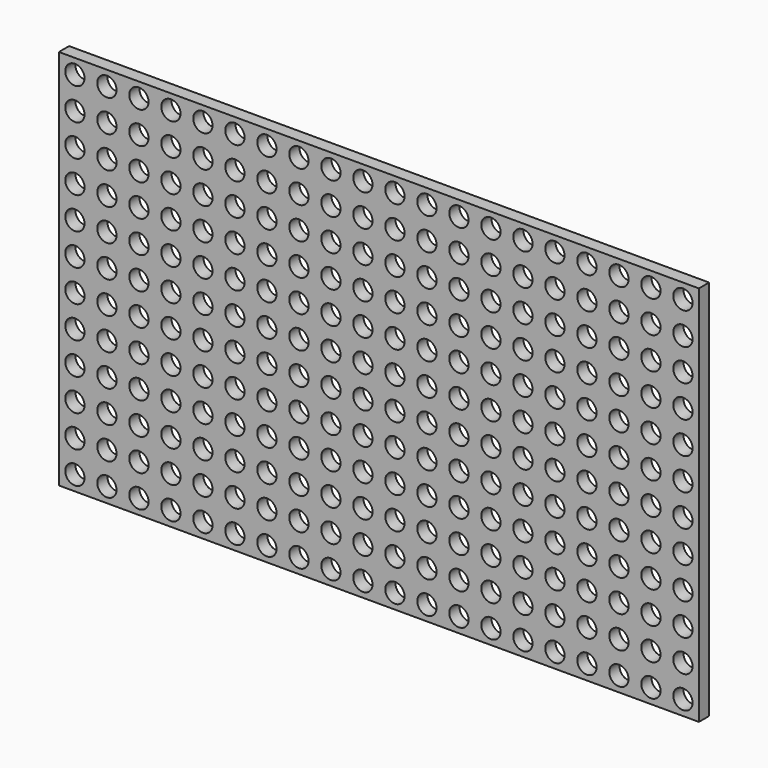
from build123d import *

# Parameters (mm, degrees)
F0_W     = 159.4
F0_H     = 95.05
F0_R     = 2.4
F1_DEPTH = 3.175


with BuildPart() as f1:
    # F0 (on Front) → F1 (new body)
    with BuildSketch(Plane.XZ):
        with Locations((79.7, -47.525)):
            Rectangle(F0_W, F0_H)
        with Locations((3.985, -91.36)):
            Circle(F0_R, mode=Mode.SUBTRACT)
        with Locations((11.955, -91.36)):
            Circle(F0_R, mode=Mode.SUBTRACT)
        with Locations((19.925, -91.36)):
            Circle(F0_R, mode=Mode.SUBTRACT)
        with Locations((3.985, -83.39)):
            Circle(F0_R, mode=Mode.SUBTRACT)
        with Locations((11.955, -83.39)):
            Circle(F0_R, mode=Mode.SUBTRACT)
        with Locations((19.925, -83.39)):
            Circle(F0_R, mode=Mode.SUBTRACT)
        with Locations((27.895, -91.36)):
            Circle(F0_R, mode=Mode.SUBTRACT)
        with Locations((35.865, -91.36)):
            Circle(F0_R, mode=Mode.SUBTRACT)
        with Locations((27.895, -83.39)):
            Circle(F0_R, mode=Mode.SUBTRACT)
        with Locations((35.865, -83.39)):
            Circle(F0_R, mode=Mode.SUBTRACT)
        with Locations((3.985, -75.42)):
            Circle(F0_R, mode=Mode.SUBTRACT)
        with Locations((11.955, -75.42)):
            Circle(F0_R, mode=Mode.SUBTRACT)
        with Locations((19.925, -75.42)):
            Circle(F0_R, mode=Mode.SUBTRACT)
        with Locations((27.895, -75.42)):
            Circle(F0_R, mode=Mode.SUBTRACT)
        with Locations((35.865, -75.42)):
            Circle(F0_R, mode=Mode.SUBTRACT)
        with Locations((43.835, -91.36)):
            Circle(F0_R, mode=Mode.SUBTRACT)
        with Locations((51.805, -91.36)):
            Circle(F0_R, mode=Mode.SUBTRACT)
        with Locations((43.835, -83.39)):
            Circle(F0_R, mode=Mode.SUBTRACT)
        with Locations((51.805, -83.39)):
            Circle(F0_R, mode=Mode.SUBTRACT)
        with Locations((59.775, -91.36)):
            Circle(F0_R, mode=Mode.SUBTRACT)
        with Locations((67.745, -91.36)):
            Circle(F0_R, mode=Mode.SUBTRACT)
        with Locations((75.715, -91.36)):
            Circle(F0_R, mode=Mode.SUBTRACT)
        with Locations((59.775, -83.39)):
            Circle(F0_R, mode=Mode.SUBTRACT)
        with Locations((67.745, -83.39)):
            Circle(F0_R, mode=Mode.SUBTRACT)
        with Locations((75.715, -83.39)):
            Circle(F0_R, mode=Mode.SUBTRACT)
        with Locations((43.835, -75.42)):
            Circle(F0_R, mode=Mode.SUBTRACT)
        with Locations((51.805, -75.42)):
            Circle(F0_R, mode=Mode.SUBTRACT)
        with Locations((59.775, -75.42)):
            Circle(F0_R, mode=Mode.SUBTRACT)
        with Locations((67.745, -75.42)):
            Circle(F0_R, mode=Mode.SUBTRACT)
        with Locations((75.715, -75.42)):
            Circle(F0_R, mode=Mode.SUBTRACT)
        with Locations((3.985, -67.45)):
            Circle(F0_R, mode=Mode.SUBTRACT)
        with Locations((11.955, -67.45)):
            Circle(F0_R, mode=Mode.SUBTRACT)
        with Locations((19.925, -67.45)):
            Circle(F0_R, mode=Mode.SUBTRACT)
        with Locations((3.985, -59.48)):
            Circle(F0_R, mode=Mode.SUBTRACT)
        with Locations((11.955, -59.48)):
            Circle(F0_R, mode=Mode.SUBTRACT)
        with Locations((19.925, -59.48)):
            Circle(F0_R, mode=Mode.SUBTRACT)
        with Locations((27.895, -67.45)):
            Circle(F0_R, mode=Mode.SUBTRACT)
        with Locations((35.865, -67.45)):
            Circle(F0_R, mode=Mode.SUBTRACT)
        with Locations((27.895, -59.48)):
            Circle(F0_R, mode=Mode.SUBTRACT)
        with Locations((35.865, -59.48)):
            Circle(F0_R, mode=Mode.SUBTRACT)
        with Locations((3.985, -51.51)):
            Circle(F0_R, mode=Mode.SUBTRACT)
        with Locations((11.955, -51.51)):
            Circle(F0_R, mode=Mode.SUBTRACT)
        with Locations((19.925, -51.51)):
            Circle(F0_R, mode=Mode.SUBTRACT)
        with Locations((27.895, -51.51)):
            Circle(F0_R, mode=Mode.SUBTRACT)
        with Locations((35.865, -51.51)):
            Circle(F0_R, mode=Mode.SUBTRACT)
        with Locations((43.835, -67.45)):
            Circle(F0_R, mode=Mode.SUBTRACT)
        with Locations((51.805, -67.45)):
            Circle(F0_R, mode=Mode.SUBTRACT)
        with Locations((43.835, -59.48)):
            Circle(F0_R, mode=Mode.SUBTRACT)
        with Locations((51.805, -59.48)):
            Circle(F0_R, mode=Mode.SUBTRACT)
        with Locations((59.775, -67.45)):
            Circle(F0_R, mode=Mode.SUBTRACT)
        with Locations((67.745, -67.45)):
            Circle(F0_R, mode=Mode.SUBTRACT)
        with Locations((75.715, -67.45)):
            Circle(F0_R, mode=Mode.SUBTRACT)
        with Locations((59.775, -59.48)):
            Circle(F0_R, mode=Mode.SUBTRACT)
        with Locations((67.745, -59.48)):
            Circle(F0_R, mode=Mode.SUBTRACT)
        with Locations((75.715, -59.48)):
            Circle(F0_R, mode=Mode.SUBTRACT)
        with Locations((43.835, -51.51)):
            Circle(F0_R, mode=Mode.SUBTRACT)
        with Locations((51.805, -51.51)):
            Circle(F0_R, mode=Mode.SUBTRACT)
        with Locations((59.775, -51.51)):
            Circle(F0_R, mode=Mode.SUBTRACT)
        with Locations((67.745, -51.51)):
            Circle(F0_R, mode=Mode.SUBTRACT)
        with Locations((75.715, -51.51)):
            Circle(F0_R, mode=Mode.SUBTRACT)
        with Locations((83.685, -91.36)):
            Circle(F0_R, mode=Mode.SUBTRACT)
        with Locations((91.655, -91.36)):
            Circle(F0_R, mode=Mode.SUBTRACT)
        with Locations((83.685, -83.39)):
            Circle(F0_R, mode=Mode.SUBTRACT)
        with Locations((91.655, -83.39)):
            Circle(F0_R, mode=Mode.SUBTRACT)
        with Locations((99.625, -91.36)):
            Circle(F0_R, mode=Mode.SUBTRACT)
        with Locations((107.595, -91.36)):
            Circle(F0_R, mode=Mode.SUBTRACT)
        with Locations((115.565, -91.36)):
            Circle(F0_R, mode=Mode.SUBTRACT)
        with Locations((99.625, -83.39)):
            Circle(F0_R, mode=Mode.SUBTRACT)
        with Locations((107.595, -83.39)):
            Circle(F0_R, mode=Mode.SUBTRACT)
        with Locations((115.565, -83.39)):
            Circle(F0_R, mode=Mode.SUBTRACT)
        with Locations((83.685, -75.42)):
            Circle(F0_R, mode=Mode.SUBTRACT)
        with Locations((91.655, -75.42)):
            Circle(F0_R, mode=Mode.SUBTRACT)
        with Locations((99.625, -75.42)):
            Circle(F0_R, mode=Mode.SUBTRACT)
        with Locations((107.595, -75.42)):
            Circle(F0_R, mode=Mode.SUBTRACT)
        with Locations((115.565, -75.42)):
            Circle(F0_R, mode=Mode.SUBTRACT)
        with Locations((123.535, -91.36)):
            Circle(F0_R, mode=Mode.SUBTRACT)
        with Locations((131.505, -91.36)):
            Circle(F0_R, mode=Mode.SUBTRACT)
        with Locations((123.535, -83.39)):
            Circle(F0_R, mode=Mode.SUBTRACT)
        with Locations((131.505, -83.39)):
            Circle(F0_R, mode=Mode.SUBTRACT)
        with Locations((139.475, -91.36)):
            Circle(F0_R, mode=Mode.SUBTRACT)
        with Locations((147.445, -91.36)):
            Circle(F0_R, mode=Mode.SUBTRACT)
        with Locations((155.415, -91.36)):
            Circle(F0_R, mode=Mode.SUBTRACT)
        with Locations((139.475, -83.39)):
            Circle(F0_R, mode=Mode.SUBTRACT)
        with Locations((147.445, -83.39)):
            Circle(F0_R, mode=Mode.SUBTRACT)
        with Locations((155.415, -83.39)):
            Circle(F0_R, mode=Mode.SUBTRACT)
        with Locations((123.535, -75.42)):
            Circle(F0_R, mode=Mode.SUBTRACT)
        with Locations((131.505, -75.42)):
            Circle(F0_R, mode=Mode.SUBTRACT)
        with Locations((139.475, -75.42)):
            Circle(F0_R, mode=Mode.SUBTRACT)
        with Locations((147.445, -75.42)):
            Circle(F0_R, mode=Mode.SUBTRACT)
        with Locations((155.415, -75.42)):
            Circle(F0_R, mode=Mode.SUBTRACT)
        with Locations((83.685, -67.45)):
            Circle(F0_R, mode=Mode.SUBTRACT)
        with Locations((91.655, -67.45)):
            Circle(F0_R, mode=Mode.SUBTRACT)
        with Locations((83.685, -59.48)):
            Circle(F0_R, mode=Mode.SUBTRACT)
        with Locations((91.655, -59.48)):
            Circle(F0_R, mode=Mode.SUBTRACT)
        with Locations((99.625, -67.45)):
            Circle(F0_R, mode=Mode.SUBTRACT)
        with Locations((107.595, -67.45)):
            Circle(F0_R, mode=Mode.SUBTRACT)
        with Locations((115.565, -67.45)):
            Circle(F0_R, mode=Mode.SUBTRACT)
        with Locations((99.625, -59.48)):
            Circle(F0_R, mode=Mode.SUBTRACT)
        with Locations((107.595, -59.48)):
            Circle(F0_R, mode=Mode.SUBTRACT)
        with Locations((115.565, -59.48)):
            Circle(F0_R, mode=Mode.SUBTRACT)
        with Locations((83.685, -51.51)):
            Circle(F0_R, mode=Mode.SUBTRACT)
        with Locations((91.655, -51.51)):
            Circle(F0_R, mode=Mode.SUBTRACT)
        with Locations((99.625, -51.51)):
            Circle(F0_R, mode=Mode.SUBTRACT)
        with Locations((107.595, -51.51)):
            Circle(F0_R, mode=Mode.SUBTRACT)
        with Locations((115.565, -51.51)):
            Circle(F0_R, mode=Mode.SUBTRACT)
        with Locations((123.535, -67.45)):
            Circle(F0_R, mode=Mode.SUBTRACT)
        with Locations((131.505, -67.45)):
            Circle(F0_R, mode=Mode.SUBTRACT)
        with Locations((123.535, -59.48)):
            Circle(F0_R, mode=Mode.SUBTRACT)
        with Locations((131.505, -59.48)):
            Circle(F0_R, mode=Mode.SUBTRACT)
        with Locations((139.475, -67.45)):
            Circle(F0_R, mode=Mode.SUBTRACT)
        with Locations((147.445, -67.45)):
            Circle(F0_R, mode=Mode.SUBTRACT)
        with Locations((155.415, -67.45)):
            Circle(F0_R, mode=Mode.SUBTRACT)
        with Locations((139.475, -59.48)):
            Circle(F0_R, mode=Mode.SUBTRACT)
        with Locations((147.445, -59.48)):
            Circle(F0_R, mode=Mode.SUBTRACT)
        with Locations((155.415, -59.48)):
            Circle(F0_R, mode=Mode.SUBTRACT)
        with Locations((123.535, -51.51)):
            Circle(F0_R, mode=Mode.SUBTRACT)
        with Locations((131.505, -51.51)):
            Circle(F0_R, mode=Mode.SUBTRACT)
        with Locations((139.475, -51.51)):
            Circle(F0_R, mode=Mode.SUBTRACT)
        with Locations((147.445, -51.51)):
            Circle(F0_R, mode=Mode.SUBTRACT)
        with Locations((155.415, -51.51)):
            Circle(F0_R, mode=Mode.SUBTRACT)
        with Locations((3.985, -43.54)):
            Circle(F0_R, mode=Mode.SUBTRACT)
        with Locations((11.955, -43.54)):
            Circle(F0_R, mode=Mode.SUBTRACT)
        with Locations((19.925, -43.54)):
            Circle(F0_R, mode=Mode.SUBTRACT)
        with Locations((27.895, -43.54)):
            Circle(F0_R, mode=Mode.SUBTRACT)
        with Locations((35.865, -43.54)):
            Circle(F0_R, mode=Mode.SUBTRACT)
        with Locations((3.985, -35.57)):
            Circle(F0_R, mode=Mode.SUBTRACT)
        with Locations((11.955, -35.57)):
            Circle(F0_R, mode=Mode.SUBTRACT)
        with Locations((19.925, -35.57)):
            Circle(F0_R, mode=Mode.SUBTRACT)
        with Locations((3.985, -27.6)):
            Circle(F0_R, mode=Mode.SUBTRACT)
        with Locations((11.955, -27.6)):
            Circle(F0_R, mode=Mode.SUBTRACT)
        with Locations((19.925, -27.6)):
            Circle(F0_R, mode=Mode.SUBTRACT)
        with Locations((27.895, -35.57)):
            Circle(F0_R, mode=Mode.SUBTRACT)
        with Locations((35.865, -35.57)):
            Circle(F0_R, mode=Mode.SUBTRACT)
        with Locations((27.895, -27.6)):
            Circle(F0_R, mode=Mode.SUBTRACT)
        with Locations((35.865, -27.6)):
            Circle(F0_R, mode=Mode.SUBTRACT)
        with Locations((43.835, -43.54)):
            Circle(F0_R, mode=Mode.SUBTRACT)
        with Locations((51.805, -43.54)):
            Circle(F0_R, mode=Mode.SUBTRACT)
        with Locations((59.775, -43.54)):
            Circle(F0_R, mode=Mode.SUBTRACT)
        with Locations((67.745, -43.54)):
            Circle(F0_R, mode=Mode.SUBTRACT)
        with Locations((75.715, -43.54)):
            Circle(F0_R, mode=Mode.SUBTRACT)
        with Locations((43.835, -35.57)):
            Circle(F0_R, mode=Mode.SUBTRACT)
        with Locations((51.805, -35.57)):
            Circle(F0_R, mode=Mode.SUBTRACT)
        with Locations((43.835, -27.6)):
            Circle(F0_R, mode=Mode.SUBTRACT)
        with Locations((51.805, -27.6)):
            Circle(F0_R, mode=Mode.SUBTRACT)
        with Locations((59.775, -35.57)):
            Circle(F0_R, mode=Mode.SUBTRACT)
        with Locations((67.745, -35.57)):
            Circle(F0_R, mode=Mode.SUBTRACT)
        with Locations((75.715, -35.57)):
            Circle(F0_R, mode=Mode.SUBTRACT)
        with Locations((59.775, -27.6)):
            Circle(F0_R, mode=Mode.SUBTRACT)
        with Locations((67.745, -27.6)):
            Circle(F0_R, mode=Mode.SUBTRACT)
        with Locations((75.715, -27.6)):
            Circle(F0_R, mode=Mode.SUBTRACT)
        with Locations((3.985, -19.63)):
            Circle(F0_R, mode=Mode.SUBTRACT)
        with Locations((11.955, -19.63)):
            Circle(F0_R, mode=Mode.SUBTRACT)
        with Locations((19.925, -19.63)):
            Circle(F0_R, mode=Mode.SUBTRACT)
        with Locations((27.895, -19.63)):
            Circle(F0_R, mode=Mode.SUBTRACT)
        with Locations((35.865, -19.63)):
            Circle(F0_R, mode=Mode.SUBTRACT)
        with Locations((3.985, -11.66)):
            Circle(F0_R, mode=Mode.SUBTRACT)
        with Locations((11.955, -11.66)):
            Circle(F0_R, mode=Mode.SUBTRACT)
        with Locations((19.925, -11.66)):
            Circle(F0_R, mode=Mode.SUBTRACT)
        with Locations((3.985, -3.69)):
            Circle(F0_R, mode=Mode.SUBTRACT)
        with Locations((11.955, -3.69)):
            Circle(F0_R, mode=Mode.SUBTRACT)
        with Locations((19.925, -3.69)):
            Circle(F0_R, mode=Mode.SUBTRACT)
        with Locations((27.895, -11.66)):
            Circle(F0_R, mode=Mode.SUBTRACT)
        with Locations((35.865, -11.66)):
            Circle(F0_R, mode=Mode.SUBTRACT)
        with Locations((27.895, -3.69)):
            Circle(F0_R, mode=Mode.SUBTRACT)
        with Locations((35.865, -3.69)):
            Circle(F0_R, mode=Mode.SUBTRACT)
        with Locations((43.835, -19.63)):
            Circle(F0_R, mode=Mode.SUBTRACT)
        with Locations((51.805, -19.63)):
            Circle(F0_R, mode=Mode.SUBTRACT)
        with Locations((59.775, -19.63)):
            Circle(F0_R, mode=Mode.SUBTRACT)
        with Locations((67.745, -19.63)):
            Circle(F0_R, mode=Mode.SUBTRACT)
        with Locations((75.715, -19.63)):
            Circle(F0_R, mode=Mode.SUBTRACT)
        with Locations((43.835, -11.66)):
            Circle(F0_R, mode=Mode.SUBTRACT)
        with Locations((51.805, -11.66)):
            Circle(F0_R, mode=Mode.SUBTRACT)
        with Locations((43.835, -3.69)):
            Circle(F0_R, mode=Mode.SUBTRACT)
        with Locations((51.805, -3.69)):
            Circle(F0_R, mode=Mode.SUBTRACT)
        with Locations((59.775, -11.66)):
            Circle(F0_R, mode=Mode.SUBTRACT)
        with Locations((67.745, -11.66)):
            Circle(F0_R, mode=Mode.SUBTRACT)
        with Locations((75.715, -11.66)):
            Circle(F0_R, mode=Mode.SUBTRACT)
        with Locations((59.775, -3.69)):
            Circle(F0_R, mode=Mode.SUBTRACT)
        with Locations((67.745, -3.69)):
            Circle(F0_R, mode=Mode.SUBTRACT)
        with Locations((75.715, -3.69)):
            Circle(F0_R, mode=Mode.SUBTRACT)
        with Locations((83.685, -43.54)):
            Circle(F0_R, mode=Mode.SUBTRACT)
        with Locations((91.655, -43.54)):
            Circle(F0_R, mode=Mode.SUBTRACT)
        with Locations((99.625, -43.54)):
            Circle(F0_R, mode=Mode.SUBTRACT)
        with Locations((107.595, -43.54)):
            Circle(F0_R, mode=Mode.SUBTRACT)
        with Locations((115.565, -43.54)):
            Circle(F0_R, mode=Mode.SUBTRACT)
        with Locations((83.685, -35.57)):
            Circle(F0_R, mode=Mode.SUBTRACT)
        with Locations((91.655, -35.57)):
            Circle(F0_R, mode=Mode.SUBTRACT)
        with Locations((83.685, -27.6)):
            Circle(F0_R, mode=Mode.SUBTRACT)
        with Locations((91.655, -27.6)):
            Circle(F0_R, mode=Mode.SUBTRACT)
        with Locations((99.625, -35.57)):
            Circle(F0_R, mode=Mode.SUBTRACT)
        with Locations((107.595, -35.57)):
            Circle(F0_R, mode=Mode.SUBTRACT)
        with Locations((115.565, -35.57)):
            Circle(F0_R, mode=Mode.SUBTRACT)
        with Locations((99.625, -27.6)):
            Circle(F0_R, mode=Mode.SUBTRACT)
        with Locations((107.595, -27.6)):
            Circle(F0_R, mode=Mode.SUBTRACT)
        with Locations((115.565, -27.6)):
            Circle(F0_R, mode=Mode.SUBTRACT)
        with Locations((123.535, -43.54)):
            Circle(F0_R, mode=Mode.SUBTRACT)
        with Locations((131.505, -43.54)):
            Circle(F0_R, mode=Mode.SUBTRACT)
        with Locations((139.475, -43.54)):
            Circle(F0_R, mode=Mode.SUBTRACT)
        with Locations((147.445, -43.54)):
            Circle(F0_R, mode=Mode.SUBTRACT)
        with Locations((155.415, -43.54)):
            Circle(F0_R, mode=Mode.SUBTRACT)
        with Locations((123.535, -35.57)):
            Circle(F0_R, mode=Mode.SUBTRACT)
        with Locations((131.505, -35.57)):
            Circle(F0_R, mode=Mode.SUBTRACT)
        with Locations((123.535, -27.6)):
            Circle(F0_R, mode=Mode.SUBTRACT)
        with Locations((131.505, -27.6)):
            Circle(F0_R, mode=Mode.SUBTRACT)
        with Locations((139.475, -35.57)):
            Circle(F0_R, mode=Mode.SUBTRACT)
        with Locations((147.445, -35.57)):
            Circle(F0_R, mode=Mode.SUBTRACT)
        with Locations((155.415, -35.57)):
            Circle(F0_R, mode=Mode.SUBTRACT)
        with Locations((139.475, -27.6)):
            Circle(F0_R, mode=Mode.SUBTRACT)
        with Locations((147.445, -27.6)):
            Circle(F0_R, mode=Mode.SUBTRACT)
        with Locations((155.415, -27.6)):
            Circle(F0_R, mode=Mode.SUBTRACT)
        with Locations((83.685, -19.63)):
            Circle(F0_R, mode=Mode.SUBTRACT)
        with Locations((91.655, -19.63)):
            Circle(F0_R, mode=Mode.SUBTRACT)
        with Locations((99.625, -19.63)):
            Circle(F0_R, mode=Mode.SUBTRACT)
        with Locations((107.595, -19.63)):
            Circle(F0_R, mode=Mode.SUBTRACT)
        with Locations((115.565, -19.63)):
            Circle(F0_R, mode=Mode.SUBTRACT)
        with Locations((83.685, -11.66)):
            Circle(F0_R, mode=Mode.SUBTRACT)
        with Locations((91.655, -11.66)):
            Circle(F0_R, mode=Mode.SUBTRACT)
        with Locations((83.685, -3.69)):
            Circle(F0_R, mode=Mode.SUBTRACT)
        with Locations((91.655, -3.69)):
            Circle(F0_R, mode=Mode.SUBTRACT)
        with Locations((99.625, -11.66)):
            Circle(F0_R, mode=Mode.SUBTRACT)
        with Locations((107.595, -11.66)):
            Circle(F0_R, mode=Mode.SUBTRACT)
        with Locations((115.565, -11.66)):
            Circle(F0_R, mode=Mode.SUBTRACT)
        with Locations((99.625, -3.69)):
            Circle(F0_R, mode=Mode.SUBTRACT)
        with Locations((107.595, -3.69)):
            Circle(F0_R, mode=Mode.SUBTRACT)
        with Locations((115.565, -3.69)):
            Circle(F0_R, mode=Mode.SUBTRACT)
        with Locations((123.535, -19.63)):
            Circle(F0_R, mode=Mode.SUBTRACT)
        with Locations((131.505, -19.63)):
            Circle(F0_R, mode=Mode.SUBTRACT)
        with Locations((139.475, -19.63)):
            Circle(F0_R, mode=Mode.SUBTRACT)
        with Locations((147.445, -19.63)):
            Circle(F0_R, mode=Mode.SUBTRACT)
        with Locations((155.415, -19.63)):
            Circle(F0_R, mode=Mode.SUBTRACT)
        with Locations((123.535, -11.66)):
            Circle(F0_R, mode=Mode.SUBTRACT)
        with Locations((131.505, -11.66)):
            Circle(F0_R, mode=Mode.SUBTRACT)
        with Locations((123.535, -3.69)):
            Circle(F0_R, mode=Mode.SUBTRACT)
        with Locations((131.505, -3.69)):
            Circle(F0_R, mode=Mode.SUBTRACT)
        with Locations((139.475, -11.66)):
            Circle(F0_R, mode=Mode.SUBTRACT)
        with Locations((147.445, -11.66)):
            Circle(F0_R, mode=Mode.SUBTRACT)
        with Locations((155.415, -11.66)):
            Circle(F0_R, mode=Mode.SUBTRACT)
        with Locations((139.475, -3.69)):
            Circle(F0_R, mode=Mode.SUBTRACT)
        with Locations((147.445, -3.69)):
            Circle(F0_R, mode=Mode.SUBTRACT)
        with Locations((155.415, -3.69)):
            Circle(F0_R, mode=Mode.SUBTRACT)
    extrude(amount=F1_DEPTH)


solid = f1.part
